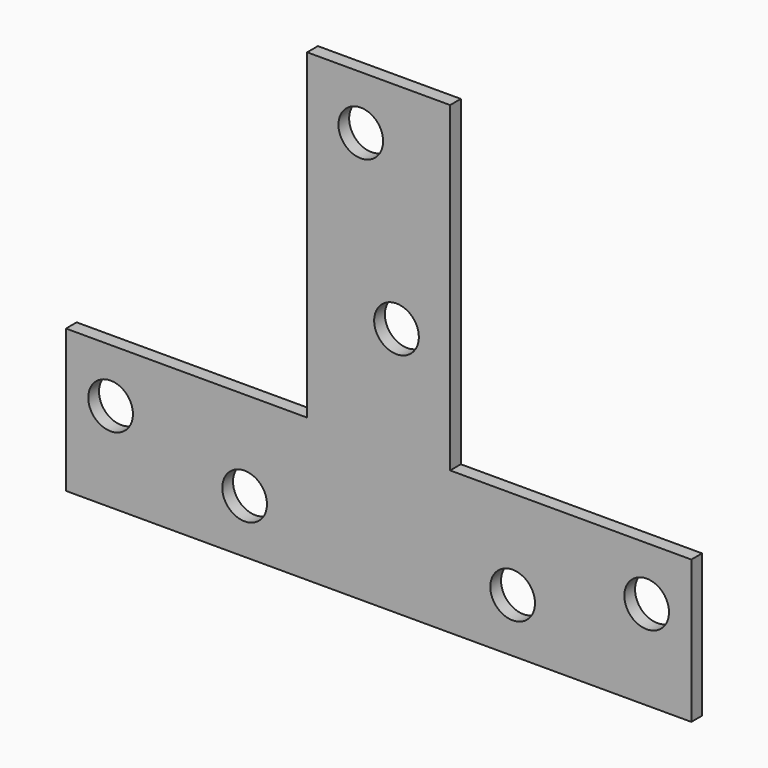
from build123d import *

# Parameters (mm, degrees)
PAD_DEPTH       = 1.5
SKETCH001_R     = 2.5
POCKET_DEPTH    = 126.900362
SKETCH002_R     = 2.5
POCKET001_DEPTH = 1.501


with BuildPart() as part:
    # Sketch → Pad (new body)
    with BuildSketch(Plane.XZ):
        Polygon((0, 0), (35, 0), (35, 16), (8, 16), (8, 52), (0, 52), align=None)
    pad = extrude(amount=PAD_DEPTH)

    # Sketch001 (on Face8 of Pad) → Pocket (cut, through all)
    with BuildSketch(Plane.XZ.offset(1.5)):
        with Locations((30, 10)):
            Circle(SKETCH001_R)
        with Locations((15, 6)):
            Circle(SKETCH001_R)
    pocket = extrude(amount=-POCKET_DEPTH, mode=Mode.SUBTRACT)

    # Mirrored: Pad, Pocket across Sketch V_Axis
    add(pad.mirror(Plane(origin=(0, 0, 0), x_dir=(0, -1, 0), z_dir=(1, 0, 0))))
    add(pocket.mirror(Plane(origin=(0, 0, 0), x_dir=(0, -1, 0), z_dir=(1, 0, 0))), mode=Mode.SUBTRACT)

    # Sketch002 (on Face5 of Mirrored) → Pocket001 (cut, through all)
    with BuildSketch(Plane.XZ.offset(1.5)):
        with Locations((2, 28)):
            Circle(SKETCH002_R)
        with Locations((-2, 46)):
            Circle(SKETCH002_R)
    extrude(amount=-POCKET001_DEPTH, mode=Mode.SUBTRACT)


solid = part.part
